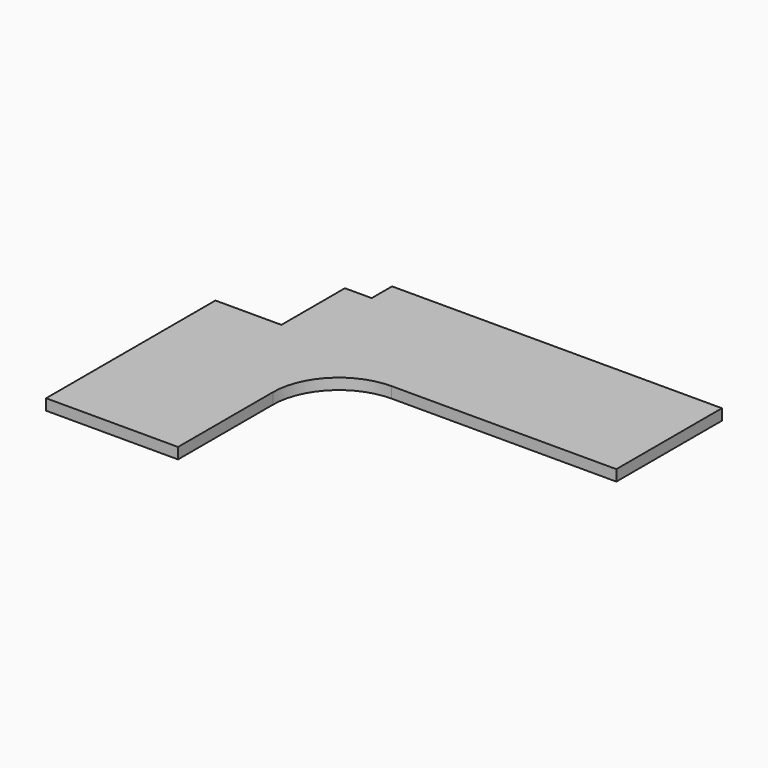
from build123d import *

# Parameters (mm, degrees)
F1_DEPTH = 50.8


with BuildPart() as f1:
    # F0 (on Top) → F1 (new body)
    with BuildSketch(Plane.XY):
        with BuildLine():
            Line((0, -484.1875), (0, -1462.0875))
            Line((0, -1462.0875), (609.6, -1462.0875))
            Line((609.6, -1462.0875), (609.6, -914.4))
            ThreePointArc((609.6, -914.4), (698.873853, -698.873853), (914.4, -609.6))
            Line((914.4, -609.6), (1952.625, -609.6))
            Line((1952.625, -609.6), (1952.625, 0))
            Line((1952.625, 0), (428.625, 0))
            Line((428.625, 0), (428.625, -117.475))
            Line((428.625, -117.475), (304.8, -117.475))
            Line((304.8, -117.475), (304.8, -484.1875))
            Line((304.8, -484.1875), (0, -484.1875))
        make_face()
    extrude(amount=F1_DEPTH)


solid = f1.part
